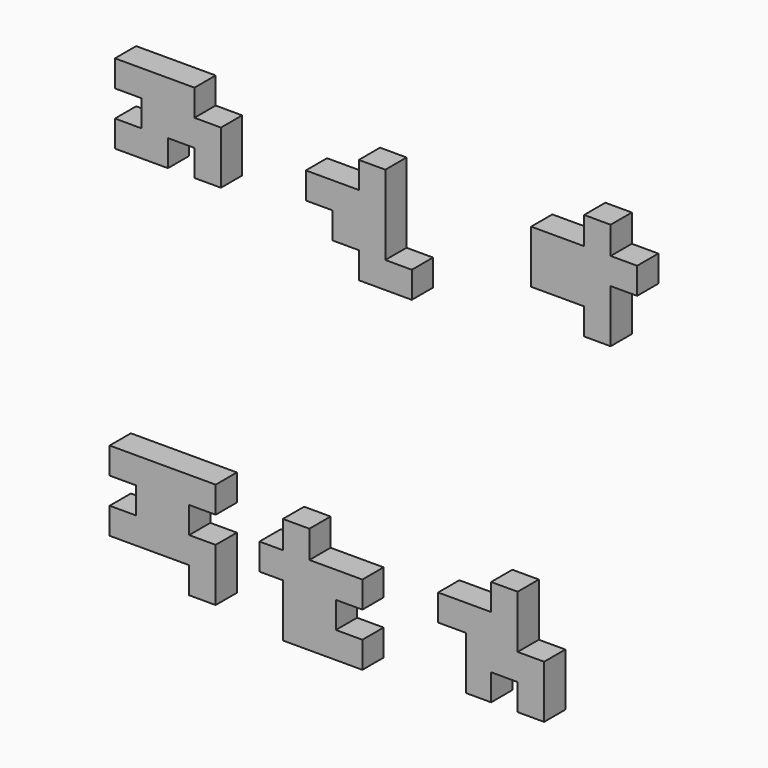
from build123d import *

# Parameters (mm, degrees)
F1_DEPTH  = 6.35
F3_DEPTH  = 6.35
F5_DEPTH  = 6.35
F7_DEPTH  = 6.35
F9_DEPTH  = 6.35
F11_DEPTH = 6.35


with BuildPart() as f1:
    # F0 (on Front) → F1 (new body)
    with BuildSketch(Plane.XZ):
        Polygon((0, 27.167125), (0, 46.217125), (-6.35, 46.217125), (-6.35, 39.867125), (-19.05, 39.867125), (-19.05, 33.517125), (-12.7, 33.517125), (-12.7, 27.167125), (-6.35, 27.167125), (-6.35, 20.817125), (6.35, 20.817125), (6.35, 27.167125), align=None)
    extrude(amount=F1_DEPTH)


with BuildPart() as f3:
    # F2 (on Front) → F3 (new body)
    with BuildSketch(Plane.XZ):
        Polygon((-45.739356, 48.640291), (-64.789356, 48.640291), (-64.789356, 42.290291), (-58.439356, 42.290291), (-58.439356, 35.940291), (-64.789356, 35.940291), (-64.789356, 29.590291), (-52.089356, 29.590291), (-52.089356, 35.940291), (-45.739356, 35.940291), (-45.739356, 29.590291), (-39.389356, 29.590291), (-39.389356, 42.290291), (-45.739356, 42.290291), align=None)
    extrude(amount=F3_DEPTH)


with BuildPart() as f5:
    # F4 (on Front) → F5 (new body)
    with BuildSketch(Plane.XZ):
        Polygon((47.644573, 45.569578), (34.944573, 45.569578), (34.944573, 32.869578), (47.644573, 32.869578), (47.644573, 26.519578), (53.994577, 26.519578), (53.994577, 39.219578), (60.34458, 39.219578), (60.34458, 45.569578), (53.994577, 45.569578), (53.994577, 52.16381), (47.644573, 52.16381), align=None)
    extrude(amount=F5_DEPTH)


with BuildPart() as f7:
    # F6 (on Front) → F7 (new body)
    with BuildSketch(Plane.XZ):
        Polygon((-66.055997, -46.156896), (-66.055997, -52.506896), (-47.005997, -52.506896), (-47.005997, -58.856896), (-40.655997, -58.856896), (-40.655997, -46.156896), (-47.005997, -46.156896), (-47.005997, -39.806896), (-40.655997, -39.806896), (-40.655997, -33.456896), (-66.055997, -33.456896), (-66.055997, -39.806896), (-59.705997, -39.806896), (-59.705997, -46.156896), align=None)
    extrude(amount=F7_DEPTH)


with BuildPart() as f9:
    # F8 (on Front) → F9 (new body)
    with BuildSketch(Plane.XZ):
        Polygon((-24.545332, -48.390722), (-24.545331, -61.090722), (-5.495331, -61.090722), (-5.495331, -54.740722), (-11.845331, -54.740722), (-11.845331, -48.390722), (-5.495331, -48.390722), (-5.495331, -42.040722), (-18.195332, -42.040722), (-18.195332, -35.446491), (-24.545332, -35.446491), (-24.545332, -42.040722), (-30.162641, -42.040722), (-30.162641, -48.390722), align=None)
    extrude(amount=F9_DEPTH)


with BuildPart() as f11:
    # F10 (on Front) → F11 (new body)
    with BuildSketch(Plane.XZ):
        Polygon((19.365028, -45.211386), (19.365028, -57.911386), (25.355593, -57.91139), (25.355593, -51.56139), (31.705593, -51.56139), (31.705593, -57.91139), (38.055593, -57.91139), (38.055593, -45.21139), (31.705593, -45.21139), (31.705593, -32.511386), (25.355593, -32.511386), (25.355593, -38.861386), (12.655593, -38.861386), (12.655593, -45.211386), align=None)
    extrude(amount=F11_DEPTH)


solid = Compound([f1.part, f3.part, f5.part, f7.part, f9.part, f11.part])
